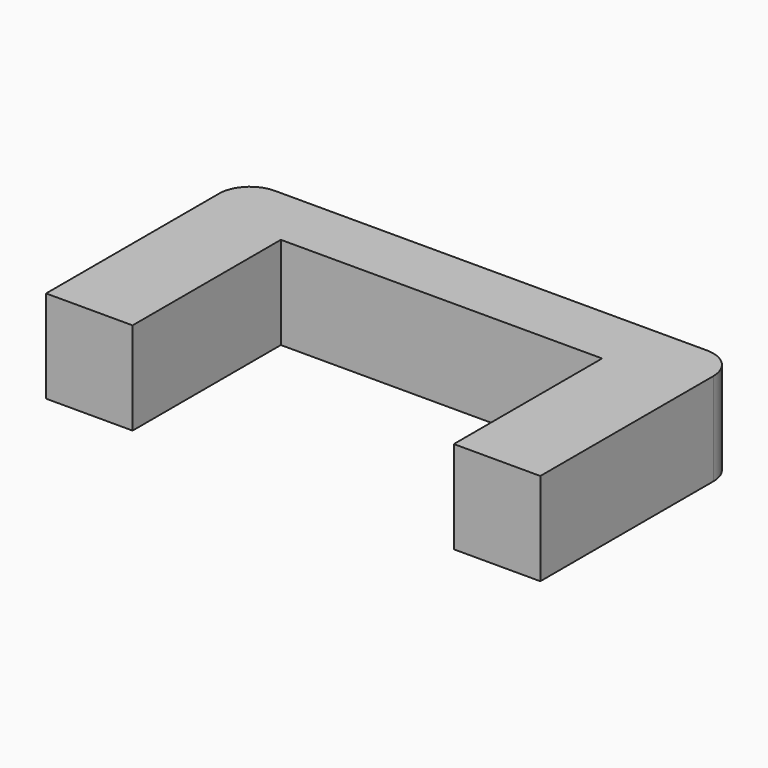
from build123d import *

# Parameters (mm, degrees)
F0_W     = 35.56
F0_H     = 76.2
F1_DEPTH = 38.1


with BuildPart() as f1:
    # F0 (on Top) → F1 (new body)
    with BuildSketch(Plane.XY):
        with BuildLine():
            Line((97.534172, 58.735216), (-80.265828, 58.735216))
            ThreePointArc((-80.265828, 58.735216), (-89.246084, 55.015472), (-92.965828, 46.035216))
            Line((-92.965828, 46.035216), (-92.965828, 33.335216))
            Line((-92.965828, 33.335216), (-57.405828, 33.335216))
            Line((-57.405828, 33.335216), (74.674172, 33.335216))
            Line((74.674172, 33.335216), (110.234172, 33.335216))
            Line((110.234172, 33.335216), (110.234172, 46.035216))
            ThreePointArc((110.234172, 46.035216), (106.514429, 55.015472), (97.534172, 58.735216))
        make_face()
        with Locations((-75.185828, -4.764784)):
            Rectangle(F0_W, F0_H)
        with Locations((92.454172, -4.764784)):
            Rectangle(F0_W, F0_H)
    extrude(amount=F1_DEPTH)


solid = f1.part
